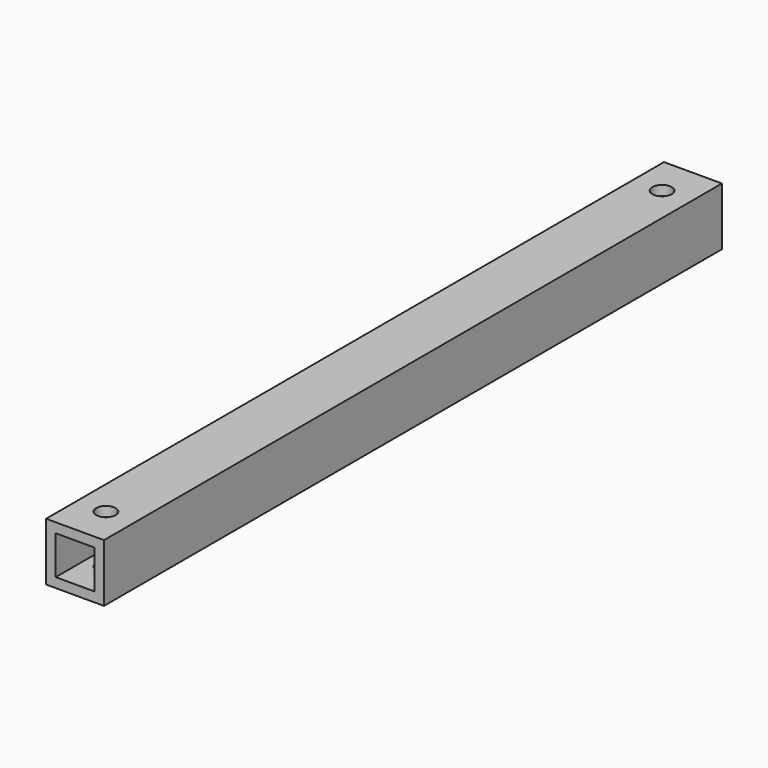
from build123d import *

# Parameters (mm, degrees)
F0_W     = 19.05
F0_H     = 19.05
F0_W_2   = 12.7
F0_H_2   = 12.7
F1_DEPTH = 254
F2_R     = 3.175
F3_DEPTH = 63.5


with BuildPart() as f1:
    # F0 (on Front) → F1 (new body)
    with BuildSketch(Plane.XZ):
        with Locations((-6.35, 6.35)):
            Rectangle(F0_W, F0_H)
        with Locations((-6.35, 6.35)):
            Rectangle(F0_W_2, F0_H_2, mode=Mode.SUBTRACT)
    extrude(amount=F1_DEPTH)

    # F2 (on Top) → F3 (cut, symmetric)
    with BuildSketch(Plane.XY):
        with Locations((-6.35, -12.7)):
            Circle(F2_R)
        with Locations((-6.35, -241.3)):
            Circle(F2_R)
    extrude(amount=F3_DEPTH, both=True, mode=Mode.SUBTRACT)


solid = f1.part
